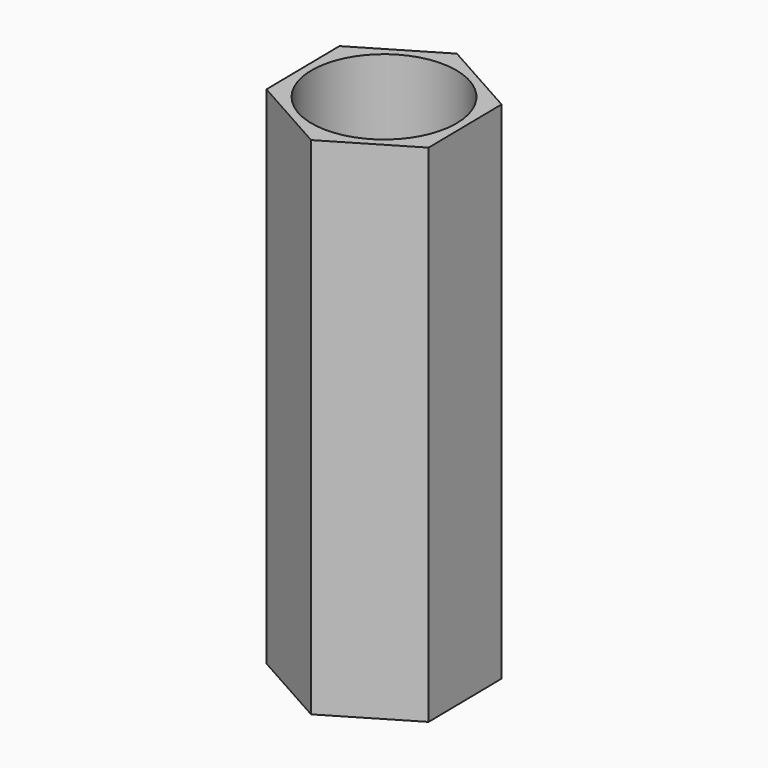
from build123d import *

# Parameters (mm, degrees)
F1_DEPTH = 35
F2_R     = 5
F3_DEPTH = 52.1


with BuildPart() as f1:
    # F0 (on Top) → F1 (new body)
    with BuildSketch(Plane.XY):
        Polygon((5.513193, 3.278526), (-0.08269, 6.413828), (-5.595884, 3.135302), (-5.513193, -3.278526), (0.08269, -6.413828), (5.595884, -3.135302), align=None)
    extrude(amount=F1_DEPTH)

    # F2 (on face) → F3 (cut)
    with BuildSketch(Plane.XY.offset(35)):
        Circle(F2_R)
    extrude(amount=-F3_DEPTH, mode=Mode.SUBTRACT)


solid = f1.part
